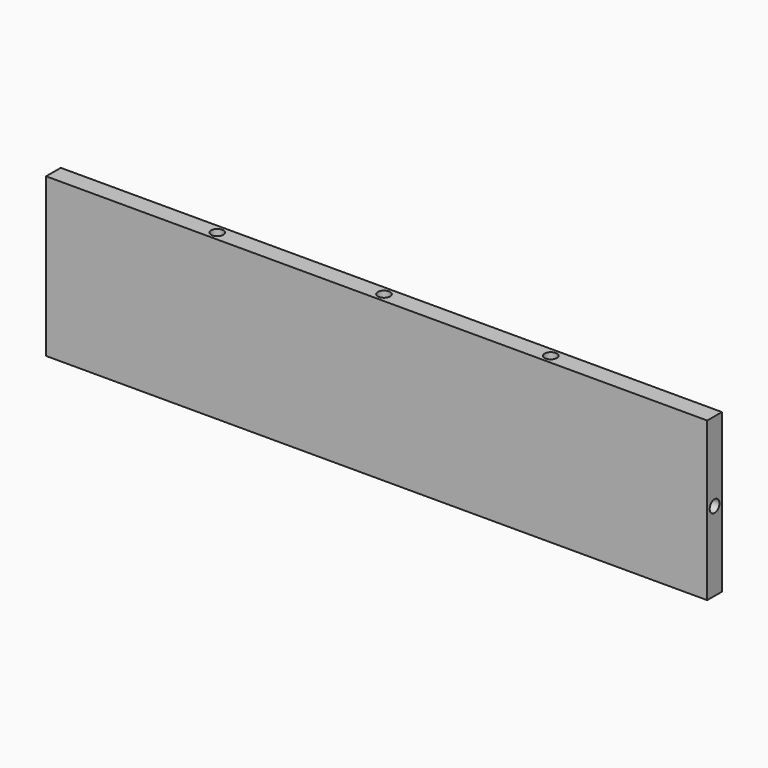
from build123d import *

# Parameters (mm, degrees)
F0_W     = 216.049
F0_H     = 51.69
F1_DEPTH = 6
F2_R     = 2
F3_DEPTH = 10
F5_DEPTH = 10
F6_START = -45.69
F6_DEPTH = 6
F7_DEPTH = 10
F8_R     = 2
F9_DEPTH = 10


with BuildPart() as f1:
    # F0 (on Front) → F1 (new body)
    with BuildSketch(Plane.XZ):
        with Locations((0, 25.845)):
            Rectangle(F0_W, F0_H)
    extrude(amount=F1_DEPTH)

    # F2 (on face) → F3 (cut)
    with BuildSketch(Plane(origin=(0, 0, 0), x_dir=(1, 0, 0), z_dir=(0, 0, -1))):
        with Locations((0, 3)):
            Circle(F2_R)
        with Locations((-54.5, 3)):
            Circle(F2_R)
        with Locations((54.5, 3)):
            Circle(F2_R)
    extrude(amount=-F3_DEPTH, mode=Mode.SUBTRACT)

    # F4 (on face) → F5 (join)
    with BuildSketch(Plane(origin=(-108.0245, 0, 0), x_dir=(0, -1, 0), z_dir=(-1, 0, 0))):
        with BuildLine():
            ThreePointArc((5, 25.845), (4.4142135624, 27.2592135624), (3, 27.845))
            Line((3, 27.845), (3, 23.845))
            ThreePointArc((3, 23.845), (4.4142135624, 24.4307864376), (5, 25.845))
        make_face()
        with BuildLine():
            Line((3, 23.845), (3, 27.845))
            ThreePointArc((3, 27.845), (1, 25.845), (3, 23.845))
        make_face()
    extrude(amount=-F5_DEPTH)

    # F2 (on face) → F6 (cut)
    with BuildSketch(Plane(origin=(0, 0, 0), x_dir=(1, 0, 0), z_dir=(0, 0, -1)).offset(F6_START)):
        with Locations((0, 3)):
            Circle(F2_R)
        with Locations((-54.5, 3)):
            Circle(F2_R)
        with Locations((54.5, 3)):
            Circle(F2_R)
    extrude(amount=-F6_DEPTH, mode=Mode.SUBTRACT)

    # F4 (on face) → F7 (cut)
    with BuildSketch(Plane(origin=(-108.0245, 0, 0), x_dir=(0, -1, 0), z_dir=(-1, 0, 0))):
        with BuildLine():
            Line((3, 23.845), (3, 27.845))
            ThreePointArc((3, 27.845), (1, 25.845), (3, 23.845))
        make_face()
        with BuildLine():
            ThreePointArc((5, 25.845), (4.4142135624, 27.2592135624), (3, 27.845))
            Line((3, 27.845), (3, 23.845))
            ThreePointArc((3, 23.845), (4.4142135624, 24.4307864376), (5, 25.845))
        make_face()
    extrude(amount=-F7_DEPTH, mode=Mode.SUBTRACT)

    # F8 (on face) → F9 (cut)
    with BuildSketch(Plane.YZ.offset(108.0245)):
        with Locations((-3, 25.845)):
            Circle(F8_R)
    extrude(amount=-F9_DEPTH, mode=Mode.SUBTRACT)


solid = f1.part
